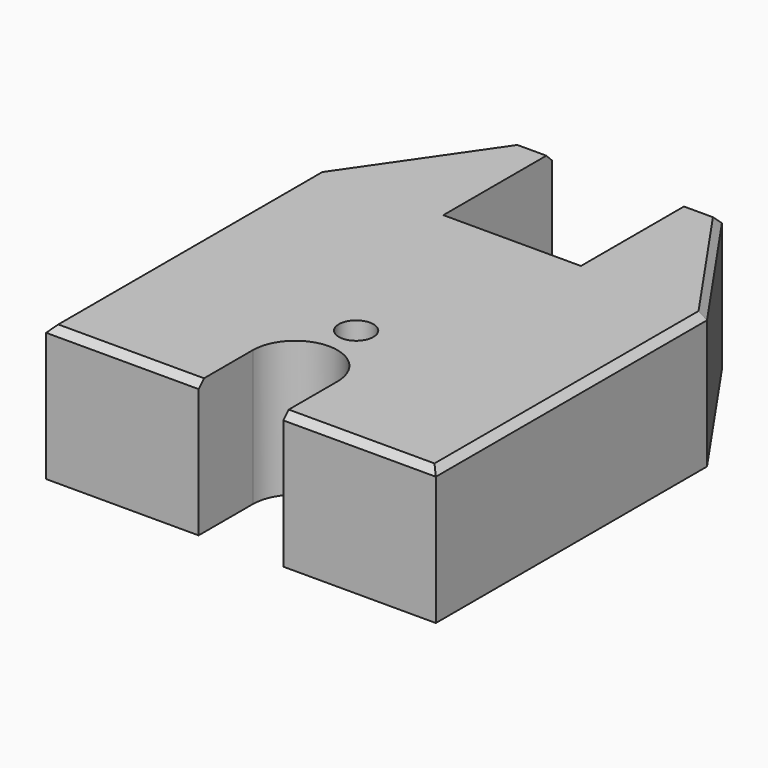
from build123d import *

# Parameters (mm, degrees)
F1_DEPTH = 25.4
F3_D     = 10.0838
F3_DEPTH = 19.05
F3_TIP   = 3.0294791551
F5_D     = 6.477
F5_DEPTH = 14.2748
F5_TIP   = 1.9458871147
F6_SIZE  = 1.27


with BuildPart() as f1:
    # F0 (on Top) → F1 (new body)
    with BuildSketch(Plane.XY):
        with BuildLine():
            Line((-12.8905, 0), (-18.9865, 0))
            Line((-18.9865, 0), (-36.5125, -25.4))
            Line((-36.5125, -25.4), (-36.5125, -88.9))
            Line((-36.5125, -88.9), (-7.9375, -88.9))
            Line((-7.9375, -88.9), (-7.9375, -76.2127))
            ThreePointArc((-7.9375, -76.2127), (0, -68.2752), (7.9375, -76.2127))
            Line((7.9375, -76.2127), (7.9375, -88.9))
            Line((7.9375, -88.9), (36.5125, -88.9))
            Line((36.5125, -88.9), (36.5125, -25.4))
            Line((36.5125, -25.4), (18.9865, 0))
            Line((18.9865, 0), (12.8905, 0))
            Line((12.8905, 0), (12.8905, -25.4))
            Line((12.8905, -25.4), (-12.8905, -25.4))
            Line((-12.8905, -25.4), (-12.8905, 0))
        make_face()
    extrude(amount=F1_DEPTH)

    # F3
    with Locations(Plane(origin=(0, -25.4, 0), x_dir=(-1, 0, 0), z_dir=(0, 1, 0))):
        with Locations((0, 12.7)):
            Hole(F3_D / 2, depth=F3_DEPTH)
            with Locations((0, 0, -(F3_DEPTH + F3_TIP / 2))):  # 118° drill point
                Cone(0, F3_D / 2, F3_TIP, mode=Mode.SUBTRACT)

    # F5
    with Locations(Plane.XY.offset(25.4)):
        with Locations((0, -61.9252)):
            Hole(F5_D / 2, depth=F5_DEPTH)
            with Locations((0, 0, -(F5_DEPTH + F5_TIP / 2))):  # 118° drill point
                Cone(0, F5_D / 2, F5_TIP, mode=Mode.SUBTRACT)

    # F6
    f6_edges = [f1.edges().sort_by_distance(p)[0] for p in [
        (-22.225, -88.9, 25.4),
        (-15.9385, 0, 25.4),
        (-27.7495, -12.7, 25.4),
        (-36.5125, -57.15, 25.4),
        (15.9385, 0, 25.4),
        (27.7495, -12.7, 25.4),
        (36.5125, -57.15, 25.4),
        (22.225, -88.9, 25.4),
    ]]
    chamfer(f6_edges, length=F6_SIZE)


solid = f1.part
